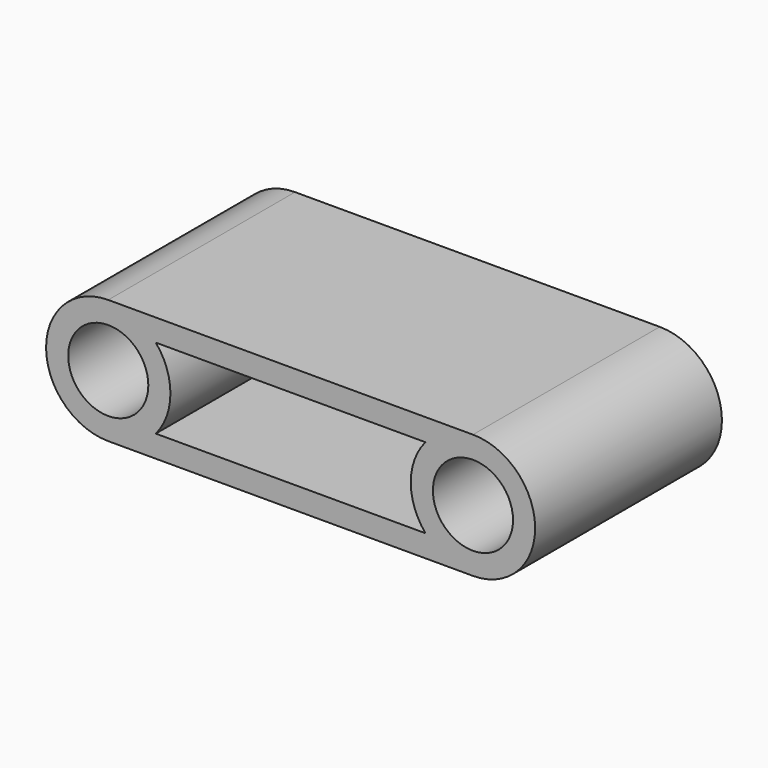
from build123d import *

# Parameters (mm, degrees)
F0_R     = 5.7546875
F1_DEPTH = 33.5359375


with BuildPart() as f1:
    # F0 (on Front) → F1 (new body)
    with BuildSketch(Plane.XZ):
        with BuildLine():
            Line((0, 8.9296875), (-52.3875, 8.9296875))
            ThreePointArc((-52.3875, 8.9296875), (-61.3171875, 0), (-52.3875, -8.9296875))
            Line((-52.3875, -8.9296875), (0, -8.9296875))
            ThreePointArc((0, -8.9296875), (8.9296875, 0), (0, 8.9296875))
        make_face()
        with Locations((-52.3875, 0)):
            Circle(F0_R, mode=Mode.SUBTRACT)
        with BuildLine():
            Line((-45.5594043193, 5.7546875), (-6.8280956807, 5.7546875))
            ThreePointArc((-6.8280956807, 5.7546875), (-8.9296875, 0), (-6.8280956807, -5.7546875))
            Line((-6.8280956807, -5.7546875), (-45.5594043193, -5.7546875))
            ThreePointArc((-45.5594043193, -5.7546875), (-43.4578125, 0), (-45.5594043193, 5.7546875))
        make_face(mode=Mode.SUBTRACT)
        Circle(F0_R, mode=Mode.SUBTRACT)
    extrude(amount=F1_DEPTH)


solid = f1.part
